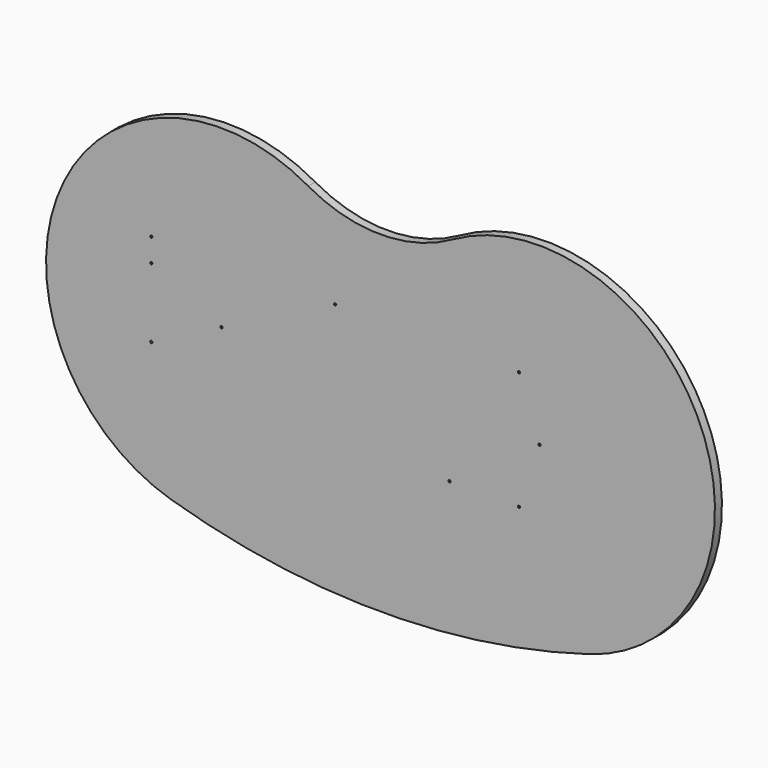
from build123d import *

# Parameters (mm, degrees)
F0_R     = 1.5
F1_DEPTH = 6


with BuildPart() as f1:
    # F0 (on Front) → F1 (new body, symmetric)
    with BuildSketch(Plane.XZ):
        with BuildLine():
            ThreePointArc((-98.8636363636, 208.62745079), (-438.2123939781, 94.2657898945), (-286.1842105263, -229.961908203))
            ThreePointArc((-286.1842105263, -229.961908203), (0, -271.7872906904), (286.1842105263, -229.961908203))
            ThreePointArc((286.1842105263, -229.961908203), (438.2123939781, 94.2657898945), (98.8636363636, 208.62745079))
            ThreePointArc((98.8636363636, 208.62745079), (0, 182.4836597817), (-98.8636363636, 208.62745079))
        make_face()
        with Locations((-313.5, -49)):
            Circle(F0_R, mode=Mode.SUBTRACT)
        with Locations((94.5, -84)):
            Circle(F0_R, mode=Mode.SUBTRACT)
        with Locations((189.5, -84)):
            Circle(F0_R, mode=Mode.SUBTRACT)
        with Locations((-313.5, 46)):
            Circle(F0_R, mode=Mode.SUBTRACT)
        with Locations((-313.5, 78)):
            Circle(F0_R, mode=Mode.SUBTRACT)
        with Locations((-217.5, 0)):
            Circle(F0_R, mode=Mode.SUBTRACT)
        with Locations((-62, 78)):
            Circle(F0_R, mode=Mode.SUBTRACT)
        with Locations((217.5, 0)):
            Circle(F0_R, mode=Mode.SUBTRACT)
        with Locations((189.5, 78)):
            Circle(F0_R, mode=Mode.SUBTRACT)
    extrude(amount=F1_DEPTH, both=True)


solid = f1.part
